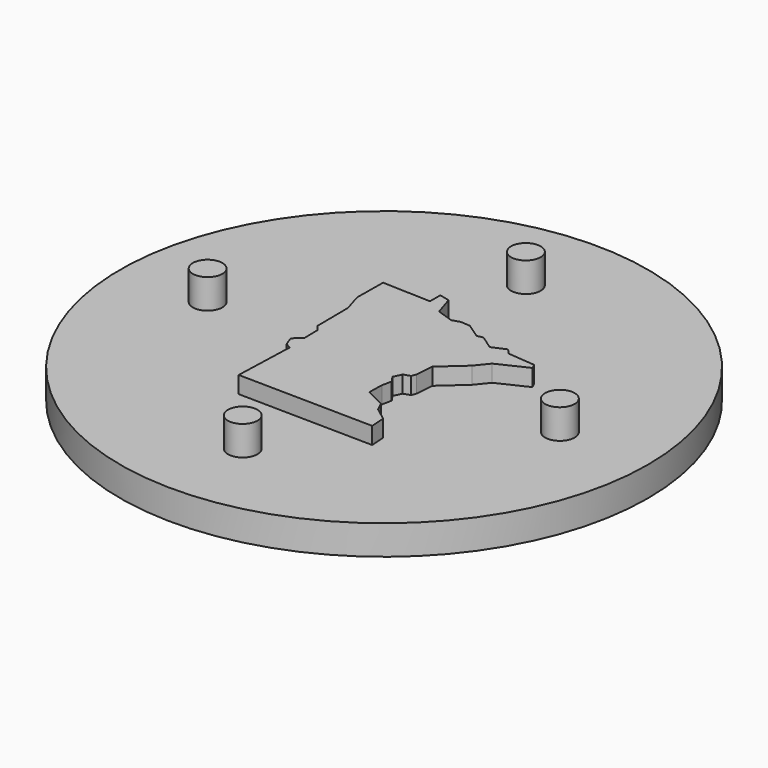
from build123d import *

# Parameters (mm, degrees)
F0_R     = 15.875
F1_DEPTH = 1.778
F4_R     = 0.889
F5_DEPTH = 1.778
F7_DEPTH = 1.016


with BuildPart() as f1:
    # F0 (on Top) → F1 (new body)
    with BuildSketch(Plane.XY):
        Circle(F0_R)
    extrude(amount=-F1_DEPTH)

    # F4 (on face) → F5 (join)
    with BuildSketch(Plane.XY):
        with Locations((0, 10.658966)):
            Circle(F4_R)
        with Locations((-10.613078, 0)):
            Circle(F4_R)
        with Locations((0, -10.630104)):
            Circle(F4_R)
        with Locations((10.574064, 0)):
            Circle(F4_R)
    extrude(amount=F5_DEPTH)

    # F6 (on face) → F7 (join)
    with BuildSketch(Plane.XY):
        Polygon((-1.286464, 5.058349), (-1.454464, 5.058349), (-4.184472, 5.163349), (-4.205472, 3.231343), (-3.869471, 2.11834), (-3.848471, -0.212667), (-3.57547, -0.527667), (-3.55447, -1.51467), (-4.037472, -1.976672), (-3.827471, -2.543673), (-3.49147, -2.732674), (-3.61747, -6.407684), (4.509553, -6.533685), (4.446552, -5.630682), (3.69055, -5.06368), (3.41755, -4.517679), (2.262546, -3.929677), (2.283546, -3.026675), (2.409547, -2.438673), (2.136546, -2.039672), (2.367547, -1.55667), (2.766548, -1.43067), (2.871548, -1.157669), (2.955548, -0.065666), (4.341552, 1.173337), (4.950554, 1.92934), (6.714559, 2.769342), (6.567559, 3.063343), (4.929554, 3.210343), (4.635553, 3.525344), (3.816551, 3.168343), (2.976548, 3.756345), (2.619547, 3.672344), (1.737545, 4.281346), (1.170543, 4.323346), (0.687542, 4.176346), (-0.299461, 4.512347), (-0.677462, 5.68835), (-1.286464, 5.83535), align=None)
    extrude(amount=F7_DEPTH)


solid = f1.part
